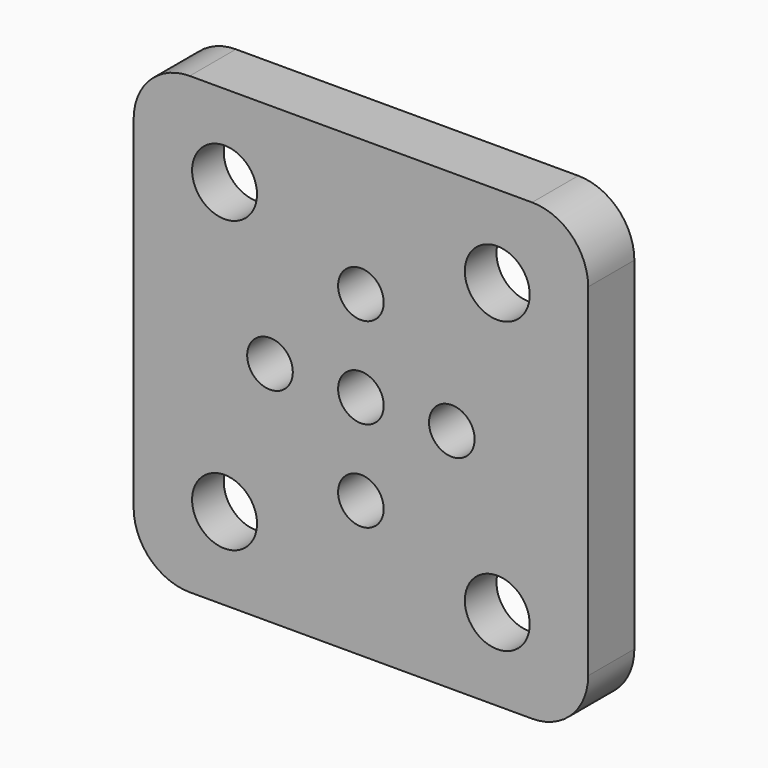
from build123d import *

# Parameters (mm, degrees)
F0_R     = 6
F0_R_2   = 2.51
F0_R_3   = 3.57
F1_DEPTH = 6.35
F2_DEPTH = 2


with BuildPart() as f1:
    # F0 (on Front) → F1 (new body)
    with BuildSketch(Plane.XZ):
        with BuildLine():
            Line((-18.83, -25), (18.83, -25))
            ThreePointArc((18.83, -25), (23.192849, -23.192849), (25, -18.83))
            Line((25, -18.83), (25, 18.83))
            ThreePointArc((25, 18.83), (23.192849, 23.192849), (18.83, 25))
            Line((18.83, 25), (-18.83, 25))
            ThreePointArc((-18.83, 25), (-23.192849, 23.192849), (-25, 18.83))
            Line((-25, 18.83), (-25, -18.83))
            ThreePointArc((-25, -18.83), (-23.192849, -23.192849), (-18.83, -25))
        make_face()
        with Locations((-14.999998, -15.950001)):
            Circle(F0_R, mode=Mode.SUBTRACT)
        with Locations((14.999999, -15.95)):
            Circle(F0_R, mode=Mode.SUBTRACT)
        with Locations((0, -10)):
            Circle(F0_R_2, mode=Mode.SUBTRACT)
        with Locations((-10, 0)):
            Circle(F0_R_2, mode=Mode.SUBTRACT)
        with Locations((-1e-06, 10)):
            Circle(F0_R_2, mode=Mode.SUBTRACT)
        with Locations((-15.000001, 15.949999)):
            Circle(F0_R, mode=Mode.SUBTRACT)
        Circle(F0_R_2, mode=Mode.SUBTRACT)
        with Locations((10, 0)):
            Circle(F0_R_2, mode=Mode.SUBTRACT)
        with Locations((14.999999, 15.95)):
            Circle(F0_R, mode=Mode.SUBTRACT)
        with Locations((-15.000001, 15.949999)):
            Circle(F0_R)
        with Locations((-15.000001, 15.949999)):
            Circle(F0_R_3, mode=Mode.SUBTRACT)
        with Locations((14.999999, 15.95)):
            Circle(F0_R)
        with Locations((14.999999, 15.95)):
            Circle(F0_R_3, mode=Mode.SUBTRACT)
        with Locations((14.999999, -15.95)):
            Circle(F0_R)
        with Locations((14.999999, -15.95)):
            Circle(F0_R_3, mode=Mode.SUBTRACT)
        with Locations((-14.999998, -15.950001)):
            Circle(F0_R)
        with Locations((-14.999998, -15.950001)):
            Circle(F0_R_3, mode=Mode.SUBTRACT)
    extrude(amount=F1_DEPTH)

    # F0 (on Front) → F2 (cut)
    with BuildSketch(Plane.XZ):
        with Locations((14.999999, 15.95)):
            Circle(F0_R)
        with Locations((14.999999, 15.95)):
            Circle(F0_R_3, mode=Mode.SUBTRACT)
        with Locations((-15.000001, 15.949999)):
            Circle(F0_R)
        with Locations((-15.000001, 15.949999)):
            Circle(F0_R_3, mode=Mode.SUBTRACT)
        with Locations((-14.999998, -15.950001)):
            Circle(F0_R)
        with Locations((-14.999998, -15.950001)):
            Circle(F0_R_3, mode=Mode.SUBTRACT)
        with Locations((14.999999, -15.95)):
            Circle(F0_R)
        with Locations((14.999999, -15.95)):
            Circle(F0_R_3, mode=Mode.SUBTRACT)
    extrude(amount=F2_DEPTH, mode=Mode.SUBTRACT)


solid = f1.part
